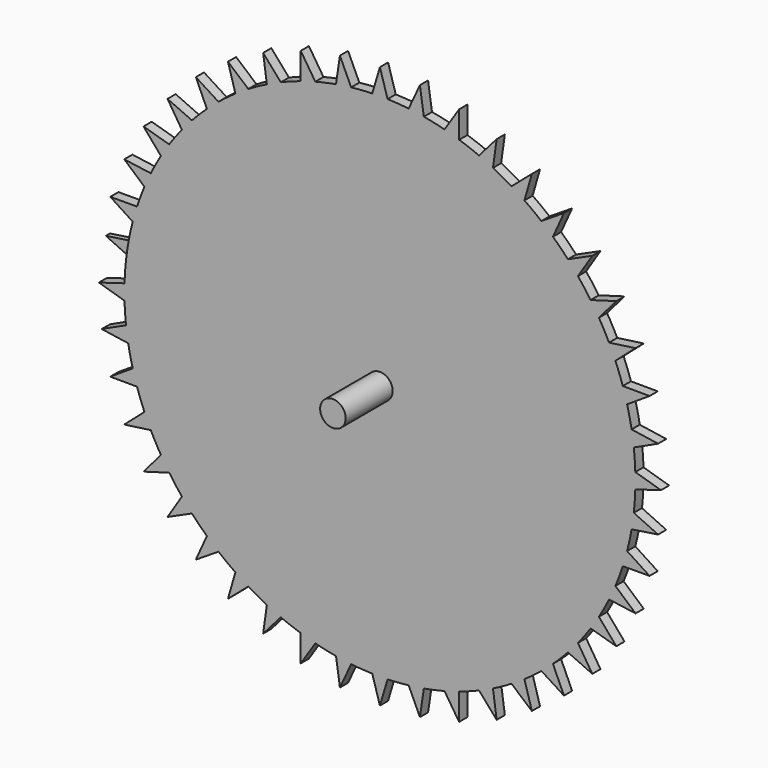
from build123d import *

# Parameters (mm, degrees)
F0_R          = 5
F1_DEPTH      = 25
F1_DEPTH_BACK = 25
F2_DEPTH      = 2
F2_DEPTH_BACK = 2
F3_DEPTH      = 2


with BuildPart() as f1:
    # F0 (on Front) → F1 (new body, two sides)
    with BuildSketch(Plane.XZ) as f1_sk:
        with Locations((45.321487, 23.518129)):
            Circle(F0_R)
    extrude(amount=F1_DEPTH)
    extrude(f1_sk.sketch, amount=-F1_DEPTH_BACK)

    # F0 (on Front) → F2 (join, two sides)
    with BuildSketch(Plane.XZ) as f2_sk:
        with BuildLine():
            Line((145.381006, 69.213781), (134.997648, 67.769526))
            ThreePointArc((134.997648, 67.769526), (133.089386, 71.443028), (131.030724, 75.034405))
            Line((131.030724, 75.034405), (137.859376, 82.988619))
            Line((137.859376, 82.988619), (127.787244, 80.081359))
            ThreePointArc((127.787244, 80.081359), (125.375611, 83.445896), (122.826797, 86.70774))
            Line((122.826797, 86.70774), (128.45394, 95.55281))
            Line((128.45394, 95.55281), (118.898074, 91.241727))
            ThreePointArc((118.898074, 91.241727), (116.032165, 94.228807), (113.045085, 97.094717))
            Line((113.045085, 97.094717), (117.356168, 106.650582))
            Line((117.356168, 106.650582), (108.511098, 101.023439))
            ThreePointArc((108.511098, 101.023439), (105.249254, 103.572253), (101.884716, 105.983886))
            Line((101.884716, 105.983886), (104.791977, 116.056018))
            Line((104.791977, 116.056018), (96.837763, 109.227366))
            ThreePointArc((96.837763, 109.227366), (93.246386, 111.286028), (89.572883, 113.19429))
            Line((89.572883, 113.19429), (91.017138, 123.577649))
            Line((91.017138, 123.577649), (84.115706, 115.6865))
            ThreePointArc((84.115706, 115.6865), (80.267905, 117.213102), (76.36022, 118.579147))
            Line((76.36022, 118.579147), (76.312068, 129.062356))
            Line((76.312068, 129.062356), (70.60391, 120.269352))
            ThreePointArc((70.60391, 120.269352), (66.578016, 121.232816), (62.515697, 122.028835))
            Line((62.515697, 122.028835), (60.976119, 132.398488))
            Line((60.976119, 132.398488), (56.577436, 122.882628))
            ThreePointArc((56.577436, 122.882628), (52.455405, 123.263341), (48.321149, 123.473129))
            Line((48.321149, 123.473129), (45.321487, 133.518129))
            Line((45.321487, 133.518129), (42.321824, 123.473129))
            ThreePointArc((42.321824, 123.473129), (38.187569, 123.263341), (34.065537, 122.882628))
            Line((34.065537, 122.882628), (29.666855, 132.398488))
            Line((29.666855, 132.398488), (28.127277, 122.028835))
            ThreePointArc((28.127277, 122.028835), (24.064958, 121.232816), (20.039064, 120.269352))
            Line((20.039064, 120.269352), (14.330906, 129.062356))
            Line((14.330906, 129.062356), (14.282754, 118.579147))
            ThreePointArc((14.282754, 118.579147), (10.375069, 117.213102), (6.527268, 115.6865))
            Line((6.527268, 115.6865), (-0.374165, 123.577649))
            Line((-0.374165, 123.577649), (1.07009, 113.19429))
            ThreePointArc((1.07009, 113.19429), (-2.603412, 111.286028), (-6.194789, 109.227366))
            Line((-6.194789, 109.227366), (-14.149003, 116.056018))
            Line((-14.149003, 116.056018), (-11.241743, 105.983886))
            ThreePointArc((-11.241743, 105.983886), (-14.60628, 103.572253), (-17.868124, 101.023439))
            Line((-17.868124, 101.023439), (-26.713194, 106.650582))
            Line((-26.713194, 106.650582), (-22.402111, 97.094717))
            ThreePointArc((-22.402111, 97.094717), (-25.389191, 94.228807), (-28.255101, 91.241727))
            Line((-28.255101, 91.241727), (-37.810966, 95.55281))
            Line((-37.810966, 95.55281), (-32.183823, 86.70774))
            ThreePointArc((-32.183823, 86.70774), (-34.732637, 83.445896), (-37.14427, 80.081359))
            Line((-37.14427, 80.081359), (-47.216402, 82.988619))
            Line((-47.216402, 82.988619), (-40.38775, 75.034405))
            ThreePointArc((-40.38775, 75.034405), (-42.446412, 71.443028), (-44.354674, 67.769526))
            Line((-44.354674, 67.769526), (-54.738033, 69.213781))
            Line((-54.738033, 69.213781), (-46.846884, 62.312348))
            ThreePointArc((-46.846884, 62.312348), (-48.373486, 58.464547), (-49.739531, 54.556862))
            Line((-49.739531, 54.556862), (-60.22274, 54.50871))
            Line((-60.22274, 54.50871), (-51.429736, 48.800552))
            ThreePointArc((-51.429736, 48.800552), (-52.3932, 44.774658), (-53.189219, 40.712339))
            ThreePointArc((-53.189219, 40.712339), (-53.660657, 37.749613), (-54.043012, 34.774078))
            ThreePointArc((-54.043012, 34.774078), (-54.423725, 30.652047), (-54.633513, 26.517792))
            Line((-54.633513, 26.517792), (-64.678513, 23.518129))
            Line((-64.678513, 23.518129), (-54.633513, 20.518467))
            ThreePointArc((-54.633513, 20.518467), (-54.423725, 16.384211), (-54.043012, 12.26218))
            Line((-54.043012, 12.26218), (-63.558872, 7.863497))
            Line((-63.558872, 7.863497), (-53.189219, 6.323919))
            ThreePointArc((-53.189219, 6.323919), (-52.3932, 2.2616), (-51.429736, -1.764294))
            Line((-51.429736, -1.764294), (-60.22274, -7.472452))
            Line((-60.22274, -7.472452), (-49.739531, -7.520604))
            ThreePointArc((-49.739531, -7.520604), (-48.373486, -11.428289), (-46.846884, -15.27609))
            Line((-46.846884, -15.27609), (-54.738033, -22.177522))
            Line((-54.738033, -22.177522), (-44.354674, -20.733268))
            ThreePointArc((-44.354674, -20.733268), (-42.446412, -24.40677), (-40.38775, -27.998147))
            Line((-40.38775, -27.998147), (-47.216402, -35.952361))
            Line((-47.216402, -35.952361), (-37.14427, -33.0451))
            ThreePointArc((-37.14427, -33.0451), (-34.732637, -36.409638), (-32.183823, -39.671482))
            Line((-32.183823, -39.671482), (-37.810966, -48.516552))
            Line((-37.810966, -48.516552), (-28.255101, -44.205469))
            ThreePointArc((-28.255101, -44.205469), (-25.389191, -47.192549), (-22.402111, -50.058458))
            Line((-22.402111, -50.058458), (-26.713194, -59.614324))
            Line((-26.713194, -59.614324), (-17.868124, -53.987181))
            ThreePointArc((-17.868124, -53.987181), (-14.60628, -56.535995), (-11.241743, -58.947628))
            Line((-11.241743, -58.947628), (-14.149003, -69.01976))
            Line((-14.149003, -69.01976), (-6.194789, -62.191108))
            ThreePointArc((-6.194789, -62.191108), (-2.603412, -64.24977), (1.07009, -66.158032))
            Line((1.07009, -66.158032), (-0.374165, -76.54139))
            Line((-0.374165, -76.54139), (6.527268, -68.650242))
            ThreePointArc((6.527268, -68.650242), (10.375069, -70.176843), (14.282754, -71.542889))
            Line((14.282754, -71.542889), (14.330906, -82.026098))
            Line((14.330906, -82.026098), (20.039064, -73.233094))
            ThreePointArc((20.039064, -73.233094), (24.064958, -74.196558), (28.127277, -74.992577))
            Line((28.127277, -74.992577), (29.666855, -85.36223))
            Line((29.666855, -85.36223), (34.065537, -75.84637))
            ThreePointArc((34.065537, -75.84637), (38.187569, -76.227082), (42.321824, -76.436871))
            Line((42.321824, -76.436871), (45.321487, -86.481871))
            Line((45.321487, -86.481871), (48.321149, -76.436871))
            ThreePointArc((48.321149, -76.436871), (52.455405, -76.227082), (56.577436, -75.84637))
            Line((56.577436, -75.84637), (60.976119, -85.36223))
            Line((60.976119, -85.36223), (62.515697, -74.992577))
            ThreePointArc((62.515697, -74.992577), (66.578016, -74.196558), (70.60391, -73.233094))
            Line((70.60391, -73.233094), (76.312068, -82.026098))
            Line((76.312068, -82.026098), (76.36022, -71.542889))
            ThreePointArc((76.36022, -71.542889), (80.267905, -70.176843), (84.115706, -68.650242))
            Line((84.115706, -68.650242), (91.017138, -76.54139))
            Line((91.017138, -76.54139), (89.572883, -66.158032))
            ThreePointArc((89.572883, -66.158032), (93.246386, -64.24977), (96.837763, -62.191108))
            Line((96.837763, -62.191108), (104.791977, -69.01976))
            Line((104.791977, -69.01976), (101.884716, -58.947628))
            ThreePointArc((101.884716, -58.947628), (105.249254, -56.535995), (108.511098, -53.987181))
            Line((108.511098, -53.987181), (117.356168, -59.614324))
            Line((117.356168, -59.614324), (113.045085, -50.058458))
            ThreePointArc((113.045085, -50.058458), (116.032165, -47.192549), (118.898074, -44.205469))
            Line((118.898074, -44.205469), (128.45394, -48.516552))
            Line((128.45394, -48.516552), (122.826797, -39.671482))
            ThreePointArc((122.826797, -39.671482), (125.375611, -36.409638), (127.787244, -33.0451))
            Line((127.787244, -33.0451), (137.859376, -35.952361))
            Line((137.859376, -35.952361), (131.030724, -27.998147))
            ThreePointArc((131.030724, -27.998147), (133.089386, -24.40677), (134.997648, -20.733268))
            Line((134.997648, -20.733268), (145.381006, -22.177522))
            Line((145.381006, -22.177522), (137.489858, -15.27609))
            ThreePointArc((137.489858, -15.27609), (139.016459, -11.428289), (140.382504, -7.520604))
            Line((140.382504, -7.520604), (150.865714, -7.472452))
            Line((150.865714, -7.472452), (142.07271, -1.764294))
            ThreePointArc((142.07271, -1.764294), (143.036173, 2.2616), (143.832193, 6.323919))
            Line((143.832193, 6.323919), (154.201845, 7.863497))
            Line((154.201845, 7.863497), (144.685986, 12.26218))
            ThreePointArc((144.685986, 12.26218), (145.066698, 16.384211), (145.276487, 20.518467))
            Line((145.276487, 20.518467), (155.321487, 23.518129))
            Line((155.321487, 23.518129), (145.276487, 26.517792))
            ThreePointArc((145.276487, 26.517792), (145.066698, 30.652047), (144.685986, 34.774078))
            Line((144.685986, 34.774078), (154.201845, 39.172761))
            Line((154.201845, 39.172761), (143.832193, 40.712339))
            ThreePointArc((143.832193, 40.712339), (143.036173, 44.774658), (142.07271, 48.800552))
            Line((142.07271, 48.800552), (150.865714, 54.50871))
            Line((150.865714, 54.50871), (140.382504, 54.556862))
            ThreePointArc((140.382504, 54.556862), (139.016459, 58.464547), (137.489858, 62.312348))
            Line((137.489858, 62.312348), (145.381006, 69.213781))
        make_face()
        with Locations((45.321487, 23.518129)):
            Circle(F0_R, mode=Mode.SUBTRACT)
    extrude(amount=F2_DEPTH)
    extrude(f2_sk.sketch, amount=-F2_DEPTH_BACK)

    # F0 (on Front) → F3 (join, through all)
    with BuildSketch(Plane.XZ):
        with BuildLine():
            Line((-53.189219, 40.712339), (-63.558872, 39.172761))
            Line((-63.558872, 39.172761), (-54.043012, 34.774078))
            ThreePointArc((-54.043012, 34.774078), (-53.660657, 37.749613), (-53.189219, 40.712339))
        make_face()
    extrude(amount=-F3_DEPTH)


solid = f1.part
